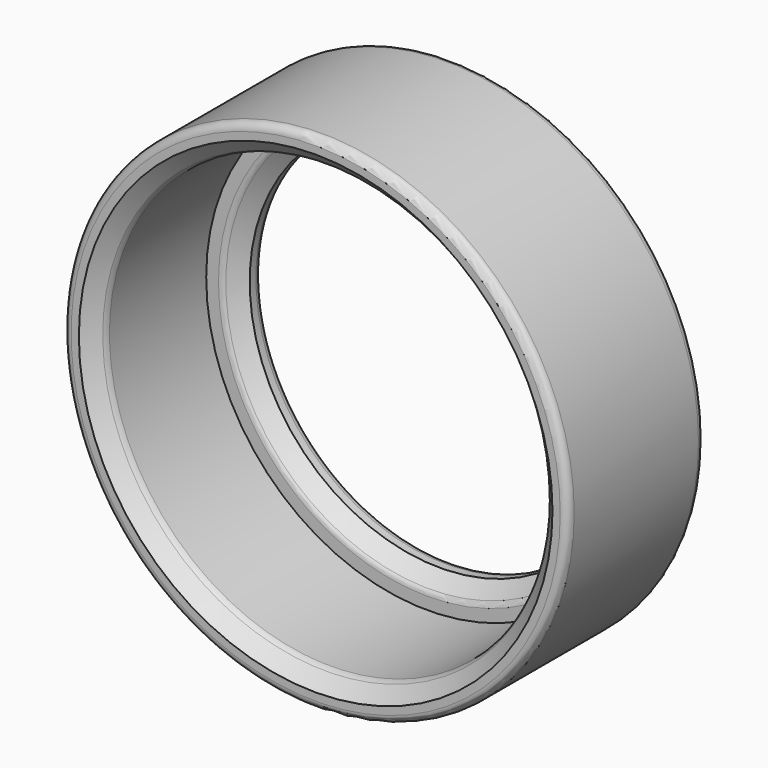
from build123d import *

# Parameters (mm, degrees)
F0_R     = 16.25
F0_R_2   = 14.25
F0_R_3   = 12.25
F1_DEPTH = 2
F2_DEPTH = 11
F3_SIZE  = 1
F4_R     = 0.5


with BuildPart() as f1:
    # F0 (on Front) → F1 (new body)
    with BuildSketch(Plane.XZ):
        Circle(F0_R)
        Circle(F0_R_2, mode=Mode.SUBTRACT)
        Circle(F0_R_2)
        Circle(F0_R_3, mode=Mode.SUBTRACT)
    extrude(amount=F1_DEPTH)

    # F0 (on Front) → F2 (join)
    with BuildSketch(Plane.XZ):
        Circle(F0_R)
        Circle(F0_R_2, mode=Mode.SUBTRACT)
    extrude(amount=F2_DEPTH)

    # F3
    f3_edges = [f1.edges().sort_by_distance(p)[0] for p in [
        (-14.25, -11, 0),
        (-12.25, -2, 0),
    ]]
    chamfer(f3_edges, length=F3_SIZE)

    # F4
    f4_edges = [f1.edges().sort_by_distance(p)[0] for p in [
        (-16.25, 0, 0),
        (16.25, -5.5, 0),
        (-16.25, -11, 0),
        (-12.25, 0, 0),
        (-14.25, -10, 0),
        (-13.25, -2, 0),
    ]]
    fillet(f4_edges, radius=F4_R)


solid = f1.part
